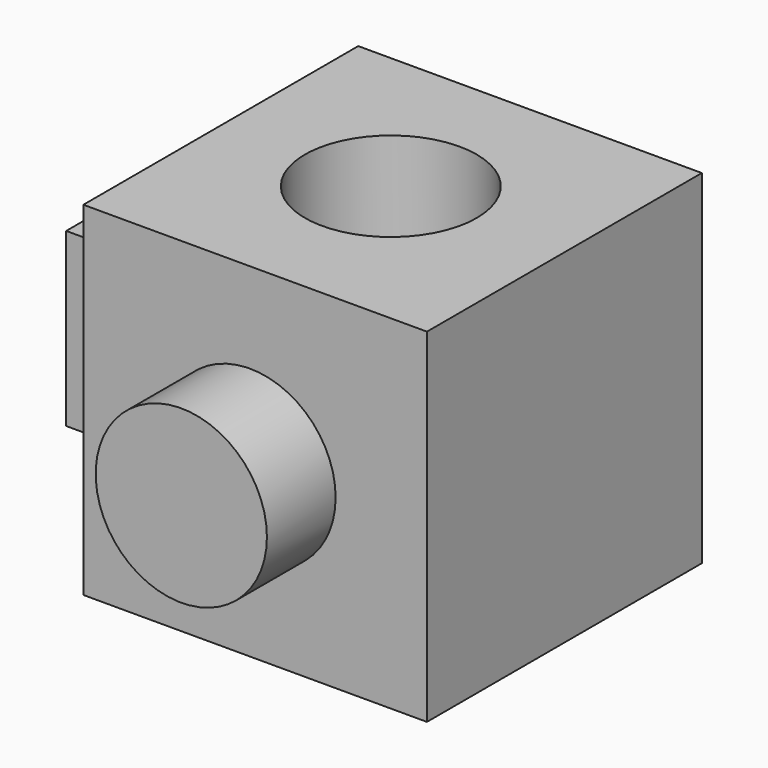
from build123d import *

# Parameters (mm, degrees)
F0_W     = 50.8
F0_H     = 50.8
F1_DEPTH = 50.8
F2_R     = 12.703868
F3_DEPTH = 50.8
F4_R     = 12.65786
F5_DEPTH = 12.7
F6_W     = 25.4
F6_H     = 25.4
F7_DEPTH = 12.7


with BuildPart() as f1:
    # F0 (on Front) → F1 (new body)
    with BuildSketch(Plane.XZ):
        with Locations((-25.4, 25.4)):
            Rectangle(F0_W, F0_H)
    extrude(amount=F1_DEPTH)

    # F2 (on face) → F3 (cut)
    with BuildSketch(Plane.XY.offset(50.8)):
        with Locations((-25.969833, -25.01506)):
            Circle(F2_R)
    extrude(amount=-F3_DEPTH, mode=Mode.SUBTRACT)

    # F4 (on face) → F5 (join)
    with BuildSketch(Plane.XZ.offset(50.8)):
        with Locations((-26.160788, 24.824105)):
            Circle(F4_R)
    extrude(amount=F5_DEPTH)

    # F6 (on face) → F7 (join)
    with BuildSketch(Plane(origin=(-50.8, 0, 0), x_dir=(0, -1, 0), z_dir=(-1, 0, 0))):
        with Locations((25.4, 25.4)):
            Rectangle(F6_W, F6_H)
    extrude(amount=F7_DEPTH)


solid = f1.part
